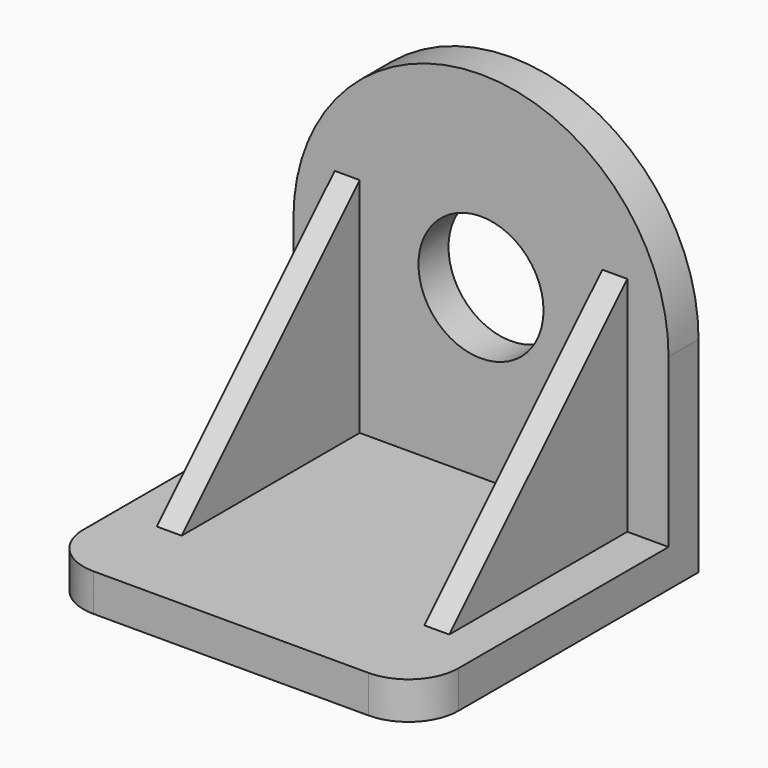
from build123d import *

# Parameters (mm, degrees)
F0_R     = 2.5
F1_DEPTH = 14
F2_W     = 12.5
F2_H     = 16.927838
F3_DEPTH = 20
F5_DEPTH = 5.85
F6_W     = 9.7
F6_H     = 13.5
F7_DEPTH = 26.2
F8_R     = 2


with BuildPart() as f1:
    # F0 (on Front) → F1 (new body)
    with BuildSketch(Plane.XZ):
        with BuildLine():
            Line((7.5, 0), (7.5, 8.2))
            ThreePointArc((7.5, 8.2), (0, 15.7), (-7.5, 8.2))
            Line((-7.5, 8.2), (-7.5, 0))
            Line((-7.5, 0), (7.5, 0))
        make_face()
        with Locations((0, 8.2)):
            Circle(F0_R, mode=Mode.SUBTRACT)
    extrude(amount=F1_DEPTH)

    # F2 (on Right) → F3 (cut, symmetric)
    with BuildSketch(Plane.YZ):
        with Locations((-7.75, 9.963919)):
            Rectangle(F2_W, F2_H)
    extrude(amount=F3_DEPTH, both=True, mode=Mode.SUBTRACT)

    # F4 (on Right) → F5 (join, symmetric)
    with BuildSketch(Plane.YZ):
        Polygon((-1.5, 1.5), (-1.5, 10.4), (-10.4, 1.5), align=None)
    extrude(amount=F5_DEPTH, both=True)

    # F6 (on face) → F7 (cut)
    with BuildSketch(Plane.XY.offset(1.5)):
        with Locations((0, -8.25)):
            Rectangle(F6_W, F6_H)
    extrude(amount=F7_DEPTH, mode=Mode.SUBTRACT)

    # F8
    f8_edges = [f1.edges().sort_by_distance(p)[0] for p in [
        (7.5, -14, 0.75),
        (-7.5, -14, 0.75),
    ]]
    fillet(f8_edges, radius=F8_R)


solid = f1.part
